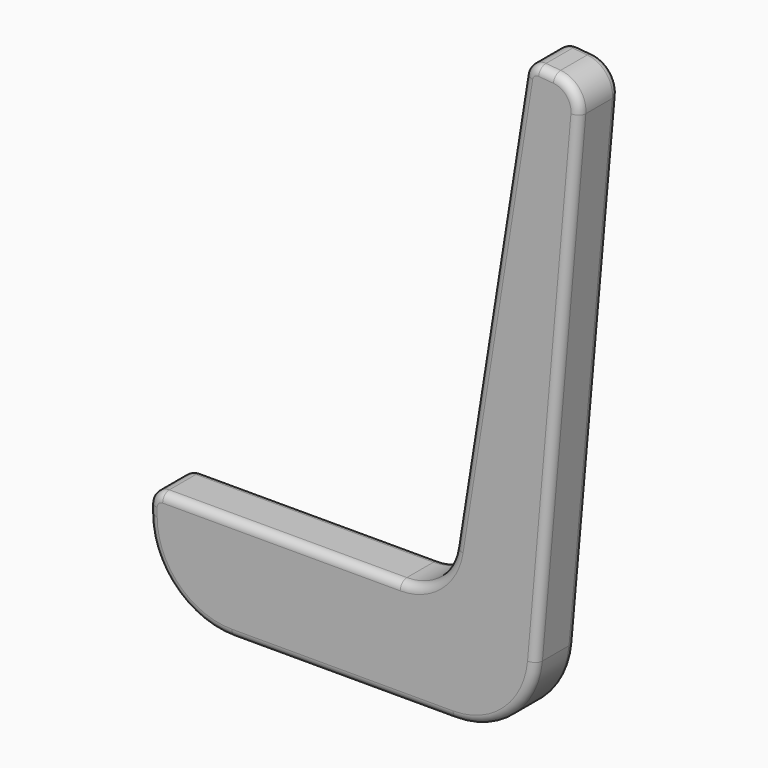
from build123d import *

# Parameters (mm, degrees)
F1_DEPTH = 18
F3_R     = 3


with BuildPart() as f1:
    # F0 (on Front) → F1 (new body)
    with BuildSketch(Plane.XZ):
        with BuildLine():
            ThreePointArc((2.672153, 16.871311), (-4.092653, 4.791881), (-17.081614, 0))
            Line((-17.081614, 0), (-102.948124, 0))
            ThreePointArc((-102.948124, 0), (-106.483658, -1.464466), (-107.948124, -5))
            Line((-107.948124, -5), (-107.948124, -8))
            ThreePointArc((-107.948124, -8), (-99.161328, -29.213203), (-77.948124, -38))
            Line((-77.948124, -38), (2.051876, -38))
            ThreePointArc((2.051876, -38), (22.319582, -30.11832), (31.937717, -10.614672))
            Line((31.937717, -10.614672), (47.62575, 168.700373))
            ThreePointArc((47.62575, 168.700373), (45.324248, 175.999807), (38.535361, 179.533878))
            Line((38.535361, 179.533878), (33.218247, 179.999065))
            ThreePointArc((33.218247, 179.999065), (29.704161, 178.958145), (27.844026, 175.800264))
            Line((27.844026, 175.800264), (2.672153, 16.871311))
        make_face()
    extrude(amount=F1_DEPTH)

    # F3
    f3_edges = [f1.edges().sort_by_distance(p)[0] for p in [
        (-4.092653, 0, 4.791881),
        (-60.014869, 0, 0),
        (-106.483658, 0, -1.464466),
        (-107.948124, 0, -6.5),
        (-99.161328, 0, -29.213203),
        (-37.948124, 0, -38),
        (22.319582, 0, -30.11832),
        (39.781734, 0, 79.042851),
        (45.324248, 0, 175.999807),
        (35.876804, 0, 179.766471),
        (29.704161, 0, 178.958145),
        (15.25809, 0, 96.335787),
        (-4.092653, -18, 4.791881),
        (-60.014869, -18, 0),
        (-106.483658, -18, -1.464466),
        (-107.948124, -18, -6.5),
        (-99.161328, -18, -29.213203),
        (-37.948124, -18, -38),
        (22.319582, -18, -30.11832),
        (39.781734, -18, 79.042851),
        (45.324248, -18, 175.999807),
        (35.876804, -18, 179.766471),
        (29.704161, -18, 178.958145),
        (15.25809, -18, 96.335787),
    ]]
    fillet(f3_edges, radius=F3_R)


solid = f1.part
